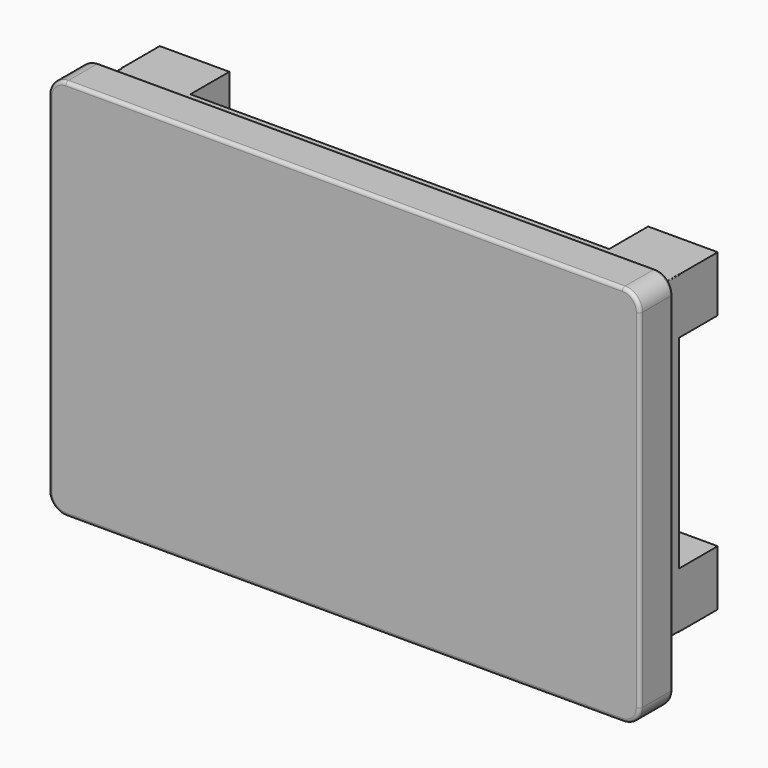
from build123d import *

# Parameters (mm, degrees)
PAD001_DEPTH = 6
PAD002_DEPTH = 4
SKETCH_W     = 10
SKETCH_H     = 8
PAD_DEPTH    = 7
FILLET_R     = 0.5


with BuildPart() as part:
    # Sketch008 → Pad001 (new body)
    with BuildSketch(Plane.XZ):
        with BuildLine():
            ThreePointArc((-40, 25), (-41.767767, 24.267767), (-42.5, 22.5))
            Line((-42.5, -27.5), (-42.5, 22.5))
            ThreePointArc((-42.5, -27.5), (-41.767767, -29.267767), (-40, -30))
            Line((40, -30), (-40, -30))
            ThreePointArc((40, -30), (41.767767, -29.267767), (42.5, -27.5))
            Line((42.5, 22.5), (42.5, -27.5))
            ThreePointArc((42.5, 22.5), (41.767767, 24.267767), (40, 25))
            Line((-40, 25), (40, 25))
        make_face()
    extrude(amount=PAD001_DEPTH)

    # Sketch009 → Pad002 (join)
    with BuildSketch(Plane.XZ):
        with BuildLine():
            ThreePointArc((-40, 22.6), (-40.070711, 22.570711), (-40.1, 22.5))
            Line((-40.1, -22.5), (-40.1, 22.5))
            ThreePointArc((-40.1, -22.5), (-40.070711, -22.570711), (-40, -22.6))
            Line((40, -22.6), (-40, -22.6))
            ThreePointArc((40, -22.6), (40.070711, -22.570711), (40.1, -22.5))
            Line((40.1, 22.5), (40.1, -22.5))
            ThreePointArc((40.1, 22.5), (40.070711, 22.570711), (40, 22.6))
            Line((-40, 22.6), (40, 22.6))
        make_face()
    extrude(amount=-PAD002_DEPTH)

    # Sketch → Pad (join)
    with BuildSketch(Plane.XZ.offset(-4)):
        with Locations((-35.1, 18.6)):
            Rectangle(SKETCH_W, SKETCH_H)
        with Locations((35.1, 18.6)):
            Rectangle(SKETCH_W, SKETCH_H)
        with Locations((35.1, -18.6)):
            Rectangle(SKETCH_W, SKETCH_H)
        with Locations((-35.1, -18.6)):
            Rectangle(SKETCH_W, SKETCH_H)
    extrude(amount=-PAD_DEPTH)

    # Fillet
    fillet_edges = [part.edges().sort_by_distance(p)[0] for p in [
        (-41.767767, -6, 24.267767),
        (0, -6, 25),
        (41.767767, -6, 24.267767),
        (42.5, -6, -2.5),
        (41.767767, -6, -29.267767),
        (0, -6, -30),
        (-41.767767, -6, -29.267767),
        (-42.5, -6, -2.5),
        (41.767767, 0, 24.267767),
        (0, 0, 25),
        (42.5, 0, -2.5),
        (41.767767, 0, -29.267767),
        (0, 0, -30),
        (-41.767767, 0, -29.267767),
        (-42.5, 0, -2.5),
        (-41.767767, 0, 24.267767),
    ]]
    fillet(fillet_edges, radius=FILLET_R)


solid = part.part
